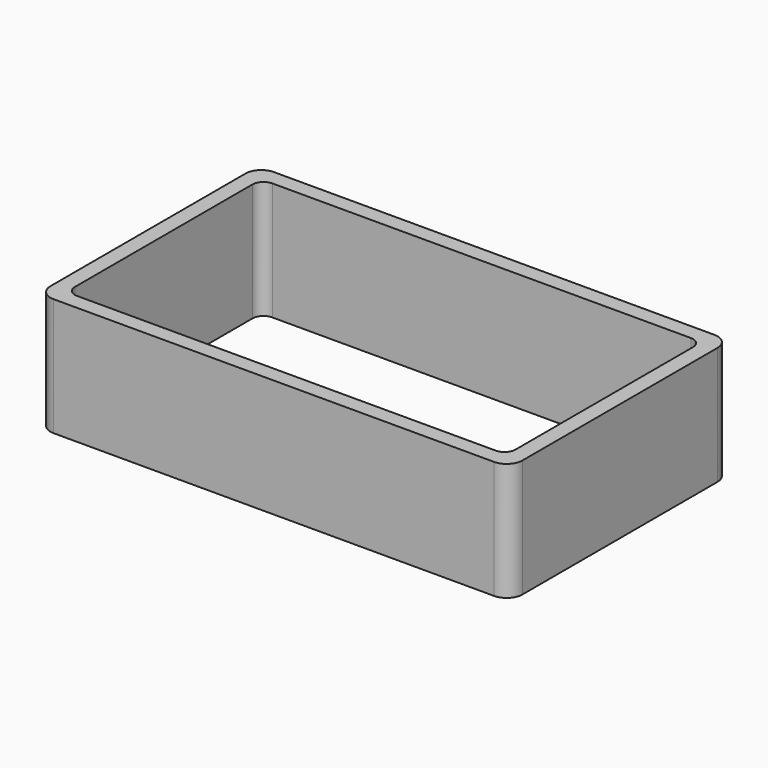
from build123d import *

# Parameters (mm, degrees)
F1_DEPTH = 75


with BuildPart() as f1:
    # F0 (on Top) → F1 (new body)
    with BuildSketch(Plane.XY):
        with BuildLine():
            Line((140, 87.5), (-140, 87.5))
            ThreePointArc((-140, 87.5), (-147.071068, 84.571068), (-150, 77.5))
            Line((-150, 77.5), (-150, -77.5))
            ThreePointArc((-150, -77.5), (-147.071068, -84.571068), (-140, -87.5))
            Line((-140, -87.5), (140, -87.5))
            ThreePointArc((140, -87.5), (147.071068, -84.571068), (150, -77.5))
            Line((150, -77.5), (150, 77.5))
            ThreePointArc((150, 77.5), (147.071068, 84.571068), (140, 87.5))
        make_face()
        with BuildLine():
            ThreePointArc((-140, 70.5), (-137.949747, 75.449747), (-133, 77.5))
            Line((-133, 77.5), (133, 77.5))
            ThreePointArc((133, 77.5), (137.949747, 75.449747), (140, 70.5))
            Line((140, 70.5), (140, -70.5))
            ThreePointArc((140, -70.5), (137.949747, -75.449747), (133, -77.5))
            Line((133, -77.5), (-133, -77.5))
            ThreePointArc((-133, -77.5), (-137.949747, -75.449747), (-140, -70.5))
            Line((-140, -70.5), (-140, 70.5))
        make_face(mode=Mode.SUBTRACT)
    extrude(amount=-F1_DEPTH)


solid = f1.part
